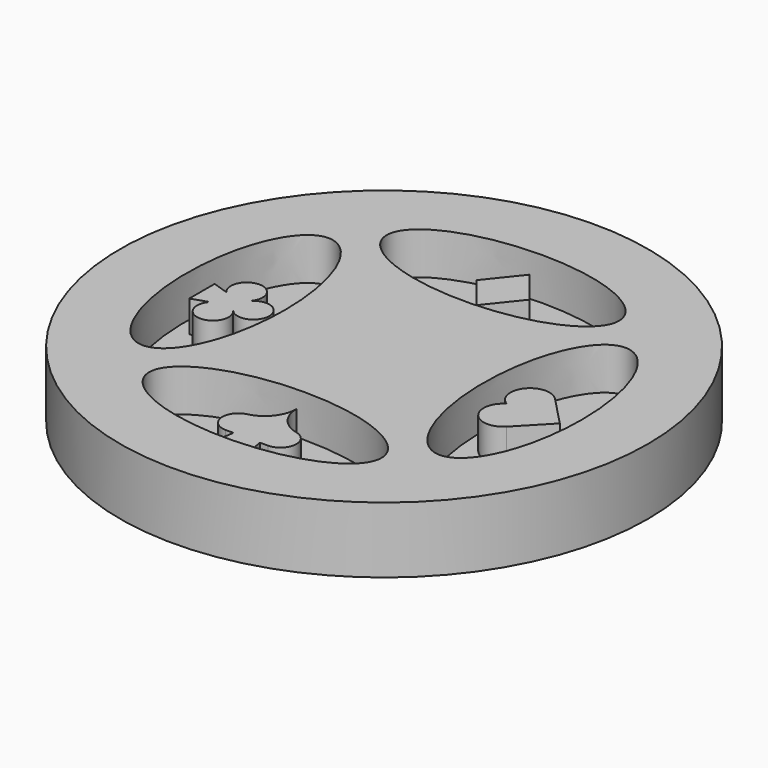
from build123d import *

# Parameters (mm, degrees)
F0_R     = 12.7
F1_DEPTH = 1.5875
F3_DEPTH = 2.032
F5_DEPTH = 1.524


with BuildPart() as f1:
    # F0 (on Top) → F1 (new body, symmetric)
    with BuildSketch(Plane.XY):
        Circle(F0_R)
    extrude(amount=F1_DEPTH, both=True)

    # F2 (on face) → F3 (cut)
    with BuildSketch(Plane.XY.offset(1.5875)):
        with BuildLine():
            add(Edge.make_bspline(
                [(5.588, 7.14375), (5.588, 11.268196), (-2.794, 9.205973), (-11.176, 7.14375), (-2.794, 5.081527), (5.588, 3.019304), (5.588, 7.14375)],
                knots=[0, 0, 0, 2.094395, 2.094395, 4.18879, 4.18879, 6.283185, 6.283185, 6.283185], degree=2, weights=[1, 0.5, 1, 0.5, 1, 0.5, 1]))
        make_face()
        with BuildLine():
            add(Edge.make_bspline(
                [(9.525, 0), (9.525, 9.6787), (5.953125, 4.83935), (2.38125, 0), (5.953125, -4.83935), (9.525, -9.6787), (9.525, 0)],
                knots=[4.712389, 4.712389, 4.712389, 6.806784, 6.806784, 8.901179, 8.901179, 10.995574, 10.995574, 10.995574], degree=2, weights=[1, 0.5, 1, 0.5, 1, 0.5, 1]))
        make_face()
        with BuildLine():
            add(Edge.make_bspline(
                [(5.588, -7.14375), (5.588, -3.019304), (-2.794, -5.081527), (-11.176, -7.14375), (-2.794, -9.205973), (5.588, -11.268196), (5.588, -7.14375)],
                knots=[0, 0, 0, 2.094395, 2.094395, 4.18879, 4.18879, 6.283185, 6.283185, 6.283185], degree=2, weights=[1, 0.5, 1, 0.5, 1, 0.5, 1]))
        make_face()
        with BuildLine():
            add(Edge.make_bspline(
                [(-4.7625, 0), (-4.7625, 9.6787), (-8.334375, 4.83935), (-11.90625, 0), (-8.334375, -4.83935), (-4.7625, -9.6787), (-4.7625, 0)],
                knots=[4.712389, 4.712389, 4.712389, 6.806784, 6.806784, 8.901179, 8.901179, 10.995574, 10.995574, 10.995574], degree=2, weights=[1, 0.5, 1, 0.5, 1, 0.5, 1]))
        make_face()
    extrude(amount=-F3_DEPTH, mode=Mode.SUBTRACT)

    # F4 (on face) → F5 (join)
    with BuildSketch(Plane.XY.offset(-0.4445)):
        Polygon((-1.27, 7.14375), (0, 5.55625), (1.27, 7.14375), (0, 8.73125), align=None)
        with BuildLine():
            ThreePointArc((7.055314, 1.457363), (5.642827, 1.391566), (5.893814, 0))
            ThreePointArc((5.893814, 0), (5.642827, -1.391566), (7.055314, -1.457363))
            Line((7.055314, -1.457363), (8.457202, 0))
            Line((8.457202, 0), (7.055314, 1.457363))
        make_face()
        with BuildLine():
            ThreePointArc((1.185333, -6.756394), (0.332634, -6.220881), (0, -5.2705))
            ThreePointArc((0, -5.2705), (-0.332634, -6.220881), (-1.185333, -6.756394))
            ThreePointArc((-1.185333, -6.756394), (-1.773222, -7.584542), (-1.016, -8.261341))
            Line((-1.016, -8.261341), (-0.635, -8.261341))
            Line((-0.635, -8.261341), (0.635, -8.261341))
            Line((0.635, -8.261341), (1.016, -8.261341))
            ThreePointArc((1.016, -8.261341), (1.773222, -7.584542), (1.185333, -6.756394))
        make_face()
        Polygon((0.762, -9.023341), (0.635, -8.261341), (-0.635, -8.261341), (-0.762, -9.023341), align=None)
        with BuildLine():
            ThreePointArc((-7.989597, -0.508), (-7.432072, -1.777929), (-6.839975, -0.523746))
            ThreePointArc((-6.839975, -0.523746), (-5.5245, 0), (-6.839975, 0.523746))
            ThreePointArc((-6.839975, 0.523746), (-7.432072, 1.777929), (-7.989597, 0.508))
            Line((-7.989597, 0.508), (-8.763, 0.762))
            Line((-8.763, 0.762), (-8.763, -0.762))
            Line((-8.763, -0.762), (-7.989597, -0.508))
        make_face()
    extrude(amount=F5_DEPTH)


solid = f1.part
